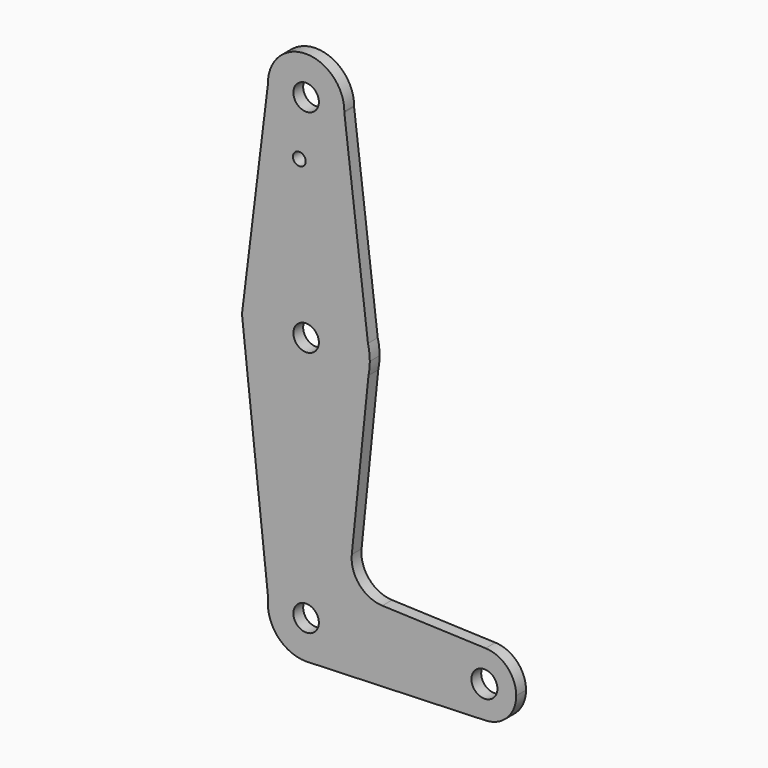
from build123d import *

# Parameters (mm, degrees)
F0_R     = 3.175
F0_R_2   = 1.5875
F0_R_3   = 3.2360562228
F1_DEPTH = 3.048


with BuildPart() as f1:
    # F0 (on Front) → F1 (new body)
    with BuildSketch(Plane.XZ):
        with BuildLine():
            ThreePointArc((-28.5459004088, 52.5420611988), (-28.5436370666, 52.6619272036), (-28.5428825794, 52.7818122009))
            ThreePointArc((-28.5428825794, 52.7818122009), (-38.1818824031, 62.3061299739), (-47.5901537689, 52.5538288839))
            ThreePointArc((-47.5901537689, 52.5538288839), (-38.0737681963, 43.2568140193), (-28.5459004088, 52.5420611988))
        make_face()
        with Locations((-38.0678825794, 52.7818122009)):
            Circle(F0_R, mode=Mode.SUBTRACT)
        with BuildLine():
            ThreePointArc((-28.5459004088, 52.5420611988), (-38.0737681963, 43.2568140193), (-47.5901537689, 52.5538288839))
            Line((-47.5901537689, 52.5538288839), (-53.8238306356, 1.9405478224))
            ThreePointArc((-53.8238306356, 1.9405478224), (-39.0048517026, 15.8473251327), (-22.6503774909, 3.7836704198))
            Line((-22.6503774909, 3.7836704198), (-28.5459004088, 52.5420611988))
        make_face()
        with Locations((-39.7601723671, 38.6829264462)):
            Circle(F0_R_2, mode=Mode.SUBTRACT)
        with BuildLine():
            ThreePointArc((-22.6503774909, 3.7836704198), (-39.0048517026, 15.8473251327), (-53.8238306356, 1.9405478224))
            ThreePointArc((-53.8238306356, 1.9405478224), (-40.649213692, -15.6637273561), (-22.5224250685, -3.2178215887))
            Line((-22.5224250685, -3.2178215887), (-22.1928825794, 0))
            Line((-22.1928825794, 0), (-22.6503774909, 3.7836704198))
        make_face()
        with Locations((-38.0678825794, 0)):
            Circle(F0_R, mode=Mode.SUBTRACT)
        with BuildLine():
            ThreePointArc((-22.5224250685, -3.2178215887), (-40.649213692, -15.6637273561), (-53.8238306356, 1.9405478224))
            Line((-53.8238306356, 1.9405478224), (-54.0628340713, 0))
            Line((-54.0628340713, 0), (-47.5218345621, -60.3569742489))
            ThreePointArc((-47.5218345621, -60.3569742489), (-37.486190064, -52.0109663954), (-28.5428825794, -61.5181877991))
            ThreePointArc((-28.5428825794, -61.5181877991), (-31.0319686017, -67.9385880591), (-37.1983239439, -71.0034127716))
            Line((-37.1983239439, -71.0034127716), (6.662930005, -69.4507189552))
            ThreePointArc((6.662930005, -69.4507189552), (-1.5553783373, -61.5099814842), (6.6793317514, -53.5862542459))
            Line((6.6793317514, -53.5862542459), (-19.0741980603, -52.6212539624))
            ThreePointArc((-19.0741980603, -52.6212539624), (-24.776294146, -49.8927819668), (-26.6853418487, -43.8666724366))
            Line((-26.6853418487, -43.8666724366), (-22.5224250685, -3.2178215887))
        make_face()
        with BuildLine():
            ThreePointArc((-22.1928825794, 0), (-22.3076713137, 1.9056142999), (-22.6503774909, 3.7836704198))
            Line((-22.6503774909, 3.7836704198), (-22.1928825794, 0))
        make_face()
        with BuildLine():
            Line((-22.1928825794, 0), (-22.5224250685, -3.2178215887))
            ThreePointArc((-22.5224250685, -3.2178215887), (-22.2754830944, -1.6173260361), (-22.1928825794, 0))
        make_face()
        with BuildLine():
            ThreePointArc((-28.5428825794, -61.5181877991), (-37.486190064, -52.0109663954), (-47.5218345621, -60.3569742489))
            ThreePointArc((-47.5218345621, -60.3569742489), (-45.2666011805, -67.7555009627), (-38.2645487801, -71.0411572627))
            Line((-38.2645487801, -71.0411572627), (-37.1983239439, -71.0034127716))
            ThreePointArc((-37.1983239439, -71.0034127716), (-31.0319686017, -67.9385880591), (-28.5428825794, -61.5181877991))
        make_face()
        with Locations((-38.0678825794, -61.5181877991)):
            Circle(F0_R, mode=Mode.SUBTRACT)
        with BuildLine():
            Line((-37.1983239439, -71.0034127716), (-38.2645487801, -71.0411572627))
            ThreePointArc((-38.2645487801, -71.0411572627), (-37.7309074781, -71.0372251864), (-37.1983239439, -71.0034127716))
        make_face()
        with BuildLine():
            ThreePointArc((14.3196174206, -61.5181877991), (12.0988929541, -56.0116113899), (6.6793317514, -53.5862542459))
            ThreePointArc((6.6793317514, -53.5862542459), (-1.5553783373, -61.5099814842), (6.662930005, -69.4507189552))
            ThreePointArc((6.662930005, -69.4507189552), (12.0931968343, -67.0306716476), (14.3196174206, -61.5181877991))
        make_face()
        with Locations((6.3821174206, -61.5181877991)):
            Circle(F0_R_3, mode=Mode.SUBTRACT)
    extrude(amount=F1_DEPTH)


solid = f1.part
